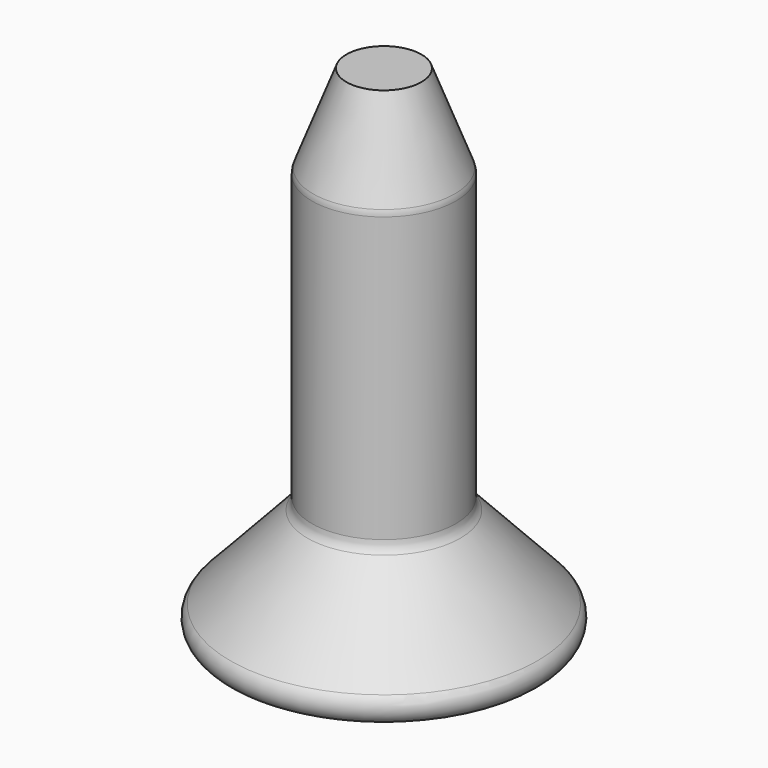
from build123d import *


with BuildPart() as f1:
    # F0 (on Front) → F1 (revolve)
    with BuildSketch(Plane.XZ):
        with BuildLine():
            Line((0, 150), (0, 0))
            Line((0, 0), (42.44396, 0))
            ThreePointArc((42.44396, 0), (47.028244, 3.003917), (46.104204, 8.406262))
            Line((46.104204, 8.406262), (22.963254, 33.272674))
            ThreePointArc((22.963254, 33.272674), (21.970476, 34.848801), (21.623498, 36.678936))
            Line((21.623498, 36.678936), (21.623498, 121.950191))
            ThreePointArc((21.623498, 121.950191), (21.540372, 122.858129), (21.293757, 123.735878))
            Line((21.293757, 123.735878), (11.251598, 150))
            Line((11.251598, 150), (0, 150))
        make_face()
    revolve(axis=Axis((0, 0, 75), (0, 0, 1)))


solid = f1.part
